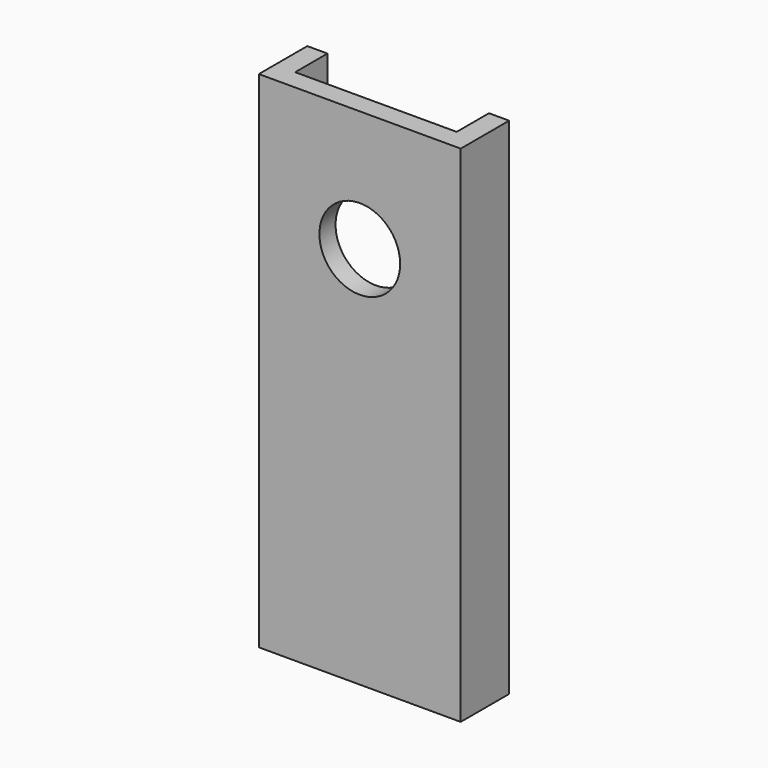
from build123d import *

# Parameters (mm, degrees)
SKETCH052_R      = 2
EXTRUDE049_DEPTH = 5
EXTRUDE048_DEPTH = 25


with BuildPart() as extrude049:
    # Sketch052 → Extrude049 (new body)
    with BuildSketch(Plane.XZ.offset(-35)):
        with Locations((0, 18)):
            Circle(SKETCH052_R)
    extrude(amount=-EXTRUDE049_DEPTH)


with BuildPart() as hook:
    # Sketch051 → Extrude048 (new body)
    with BuildSketch(Plane.XY.offset(-1)):
        Polygon((-5, 40), (-5, 37), (5, 37), (5, 40), (4, 40), (4, 38), (-4, 38), (-4, 40), align=None)
    extrude(amount=EXTRUDE048_DEPTH)

    # Cut041: cut Extrude049
    add(extrude049.part, mode=Mode.SUBTRACT)


solid = hook.part
